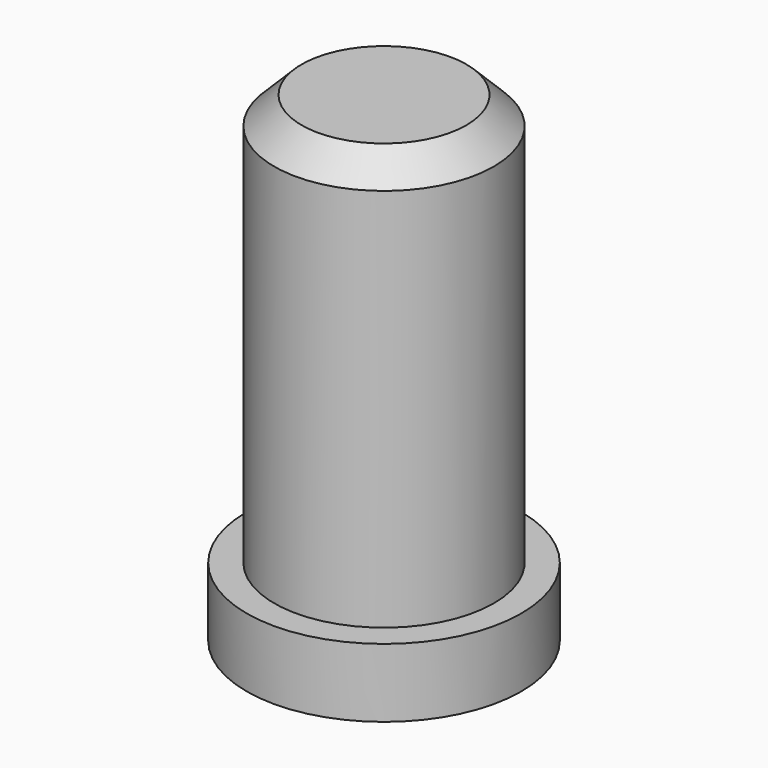
from build123d import *

# Parameters (mm, degrees)
F2_R      = 6
F4_R      = 7.5
F4_R_2    = 6
F10_DEPTH = 3.75
F11_SIZE  = 1.5


with BuildPart() as f9:
    # F9: sweep along a path in F0
    with BuildLine(Plane.XZ) as f9_path:
        Line((-6, 51.75), (-6, 74.25))
    # F2 (on line) → F9 (sweep)
    with BuildSketch(Plane.XY.offset(74.25)):
        Circle(F2_R)
    sweep(path=f9_path.line)

    # F11
    f11_edges = [f9.edges().sort_by_distance(p)[0] for p in [
        (-6, 0, 74.25),
    ]]
    chamfer(f11_edges, length=F11_SIZE)


with BuildPart() as f10:
    # F4 (on line) → F10 (new body)
    with BuildSketch(Plane.XY.offset(48)):
        Circle(F4_R)
        Circle(F4_R_2, mode=Mode.SUBTRACT)
        Circle(F4_R_2)
    extrude(amount=F10_DEPTH)


solid = Compound([f9.part, f10.part])
